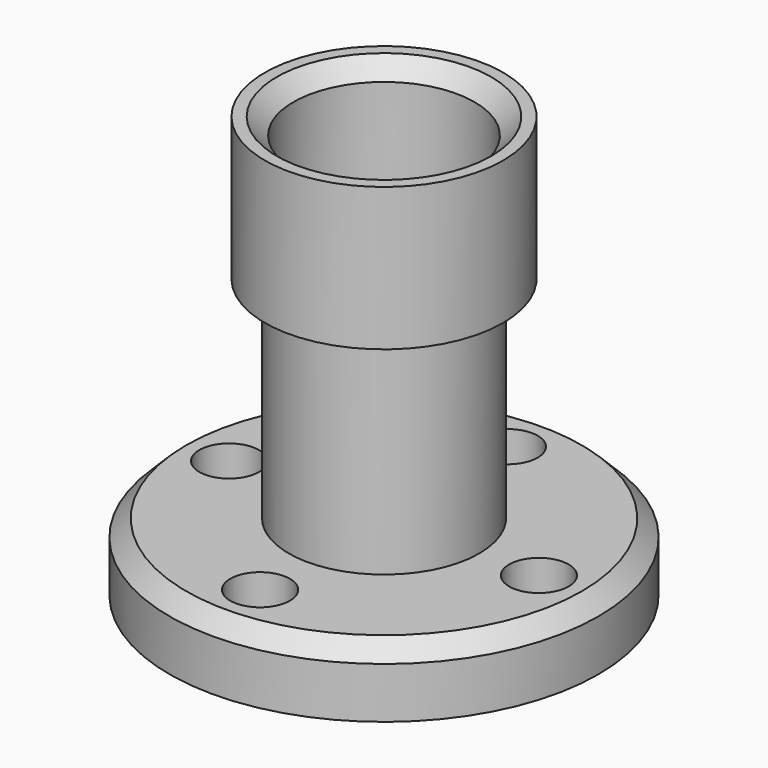
from build123d import *

# Parameters (mm, degrees)
F2_SIZE  = 88.9
F3_SIZE  = 88.9
F4_SIZE  = 88.9
F6_DEPTH = 360.681


with BuildPart() as f1:
    # F0 (on Front) → F1 (revolve)
    with BuildSketch(Plane.XZ):
        Polygon((1524, 1635.76), (1524, 0), (2286, 0), (2286, 360.68), (1651, 360.68), (1651, 1483.36), (1778, 1483.36), (1778, 2245.36), (1625.6, 2245.36), (1625.6, 1635.76), align=None)
    revolve(axis=Axis((1143, 0, 1563.8531446457), (0, 0, 1)))

    # F2
    f2_edges = [f1.edges().sort_by_distance(p)[0] for p in [
        (762, 0, 0),
    ]]
    chamfer(f2_edges, length=F2_SIZE)

    # F3
    f3_edges = [f1.edges().sort_by_distance(p)[0] for p in [
        (0, 0, 360.68),
    ]]
    chamfer(f3_edges, length=F3_SIZE)

    # F4
    f4_edges = [f1.edges().sort_by_distance(p)[0] for p in [
        (660.4, 0, 2245.36),
    ]]
    chamfer(f4_edges, length=F4_SIZE)

    # F5 (on face) → F6 (cut, through all)
    with BuildSketch(Plane.XY.offset(360.68)):
        with BuildLine():
            ThreePointArc((984.9855706331, 810.2355769231), (1143, 825.5), (1301.0144293669, 810.2355769231))
            ThreePointArc((1301.0144293668, 810.2355769231), (1301.5660007095, 817.8589320768), (1301.75, 825.5))
            ThreePointArc((1301.75, 825.5), (1135.3589320768, 984.0660007095), (984.9855706332, 810.2355769231))
        make_face()
        with BuildLine():
            ThreePointArc((984.9855706332, 810.2355769231), (1143, 666.75), (1301.0144293668, 810.2355769231))
            ThreePointArc((1301.0144293669, 810.2355769231), (1143, 825.5), (984.9855706331, 810.2355769231))
        make_face()
        with BuildLine():
            ThreePointArc((1953.2355769231, -158.0144293668), (1964.6750327076, -79.375), (1968.5, 0))
            ThreePointArc((1968.5, 0), (1964.6750327076, 79.375), (1953.2355769231, 158.0144293668))
            ThreePointArc((1953.2355769231, 158.0144293668), (1809.75, 0), (1953.2355769231, -158.0144293668))
        make_face()
        with BuildLine():
            ThreePointArc((1953.2355769231, 158.0144293668), (1964.6750327076, 79.375), (1968.5, 0))
            ThreePointArc((1968.5, 0), (1964.6750327076, -79.375), (1953.2355769231, -158.0144293668))
            ThreePointArc((1953.2355769231, -158.0144293668), (2075.2200434233, -117.5261453113), (2127.25, 0))
            ThreePointArc((2127.25, 0), (2075.2200434233, 117.5261453113), (1953.2355769231, 158.0144293668))
        make_face()
        with BuildLine():
            ThreePointArc((984.9855706331, -810.2355769231), (1143, -825.5), (1301.0144293669, -810.2355769231))
            ThreePointArc((1301.0144293668, -810.2355769231), (1143, -666.75), (984.9855706332, -810.2355769231))
        make_face()
        with BuildLine():
            ThreePointArc((1301.75, -825.5), (1301.5660007095, -817.8589320768), (1301.0144293668, -810.2355769231))
            ThreePointArc((1301.0144293669, -810.2355769231), (1143, -825.5), (984.9855706331, -810.2355769231))
            ThreePointArc((984.9855706332, -810.2355769231), (1135.3589320768, -984.0660007095), (1301.75, -825.5))
        make_face()
        with BuildLine():
            ThreePointArc((476.25, 0), (435.0261453113, 106.7200434233), (332.7644230769, 158.0144293668))
            ThreePointArc((332.7644230769, 158.0144293668), (317.5, 0), (332.7644230769, -158.0144293668))
            ThreePointArc((332.7644230769, -158.0144293668), (435.0261453113, -106.7200434233), (476.25, 0))
        make_face()
        with BuildLine():
            ThreePointArc((332.7644230769, -158.0144293668), (317.5, 0), (332.7644230769, 158.0144293668))
            ThreePointArc((332.7644230769, 158.0144293668), (158.75, 0), (332.7644230769, -158.0144293668))
        make_face()
    extrude(amount=-F6_DEPTH, mode=Mode.SUBTRACT)


solid = f1.part
